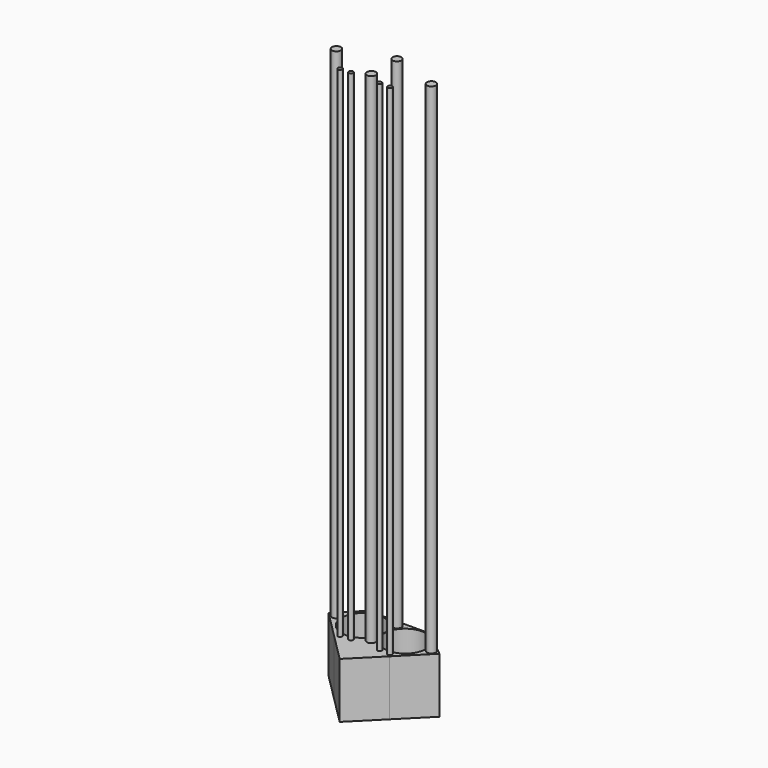
from build123d import *

# Parameters (mm, degrees)
F0_R     = 2.011409
F0_R_2   = 2.018501
F0_R_3   = 1
F0_R_4   = 2
F0_R_5   = 2.02876
F1_DEPTH = 250
F2_R     = 1
F2_R_2   = 2
F2_R_3   = 2.011409
F3_DEPTH = 25


with BuildPart() as f1:
    # F0 (on Top) → F1 (new body)
    with BuildSketch(Plane.XY):
        with Locations((91.285117, -48.225049)):
            Circle(F0_R)
        with Locations((112.654991, -55.546634)):
            Circle(F0_R_2)
        with Locations((102.704443, -66.479258)):
            Circle(F0_R_3)
        with Locations((97.974852, -66.391677)):
            Circle(F0_R_3)
        with Locations((91.285117, -62.660962)):
            Circle(F0_R_4)
        with Locations((85.01225, -66.304088)):
            Circle(F0_R_3)
        with Locations((80.37024, -66.56684)):
            Circle(F0_R_3)
        with Locations((69.864146, -55.546634)):
            Circle(F0_R_5)
    extrude(amount=F1_DEPTH)


with BuildPart() as f3:
    # F2 (on Top) → F3 (new body)
    with BuildSketch(Plane.XY):
        with BuildLine():
            Line((116.285117, -55.546634), (114.673492, -55.546634))
            ThreePointArc((114.673492, -55.546634), (112.654991, -57.565135), (110.636491, -55.546634))
            Line((110.636491, -55.546634), (110.339861, -55.546634))
            ThreePointArc((110.339861, -55.546634), (100.839861, -65.046634), (91.339861, -55.546634))
            Line((91.339861, -55.546634), (91.202963, -55.546634))
            ThreePointArc((91.202963, -55.546634), (81.702963, -65.046634), (72.202963, -55.546634))
            Line((72.202963, -55.546634), (71.892907, -55.546634))
            ThreePointArc((71.892907, -55.546634), (69.864146, -57.575394), (67.835386, -55.546634))
            Line((67.835386, -55.546634), (66.285117, -55.546634))
            Line((66.285117, -55.546634), (78.785117, -68.046634))
            Line((78.785117, -68.046634), (103.785117, -68.046634))
            Line((103.785117, -68.046634), (116.285117, -55.546634))
        make_face()
        with Locations((80.37024, -66.56684)):
            Circle(F2_R, mode=Mode.SUBTRACT)
        with Locations((85.01225, -66.304088)):
            Circle(F2_R, mode=Mode.SUBTRACT)
        with Locations((97.974852, -66.391677)):
            Circle(F2_R, mode=Mode.SUBTRACT)
        with Locations((102.704443, -66.479258)):
            Circle(F2_R, mode=Mode.SUBTRACT)
        with Locations((91.285117, -62.660962)):
            Circle(F2_R_2, mode=Mode.SUBTRACT)
        with BuildLine():
            ThreePointArc((110.636491, -55.546634), (112.654991, -53.528133), (114.673492, -55.546634))
            Line((114.673492, -55.546634), (116.285117, -55.546634))
            Line((116.285117, -55.546634), (104.267327, -45.546634))
            Line((104.267327, -45.546634), (76.285117, -45.546634))
            Line((76.285117, -45.546634), (66.285117, -55.546634))
            Line((66.285117, -55.546634), (67.835386, -55.546634))
            ThreePointArc((67.835386, -55.546634), (69.864146, -53.517874), (71.892907, -55.546634))
            Line((71.892907, -55.546634), (72.202963, -55.546634))
            ThreePointArc((72.202963, -55.546634), (81.702963, -46.046634), (91.202963, -55.546634))
            Line((91.202963, -55.546634), (91.339861, -55.546634))
            ThreePointArc((91.339861, -55.546634), (100.839861, -46.046634), (110.339861, -55.546634))
            Line((110.339861, -55.546634), (110.636491, -55.546634))
        make_face()
        with Locations((91.285117, -48.225049)):
            Circle(F2_R_3, mode=Mode.SUBTRACT)
        Polygon((91.311842, -80.54664), (103.785117, -68.046634), (78.785117, -68.046634), align=None)
    extrude(amount=F3_DEPTH)


solid = Compound([f1.part, f3.part])
